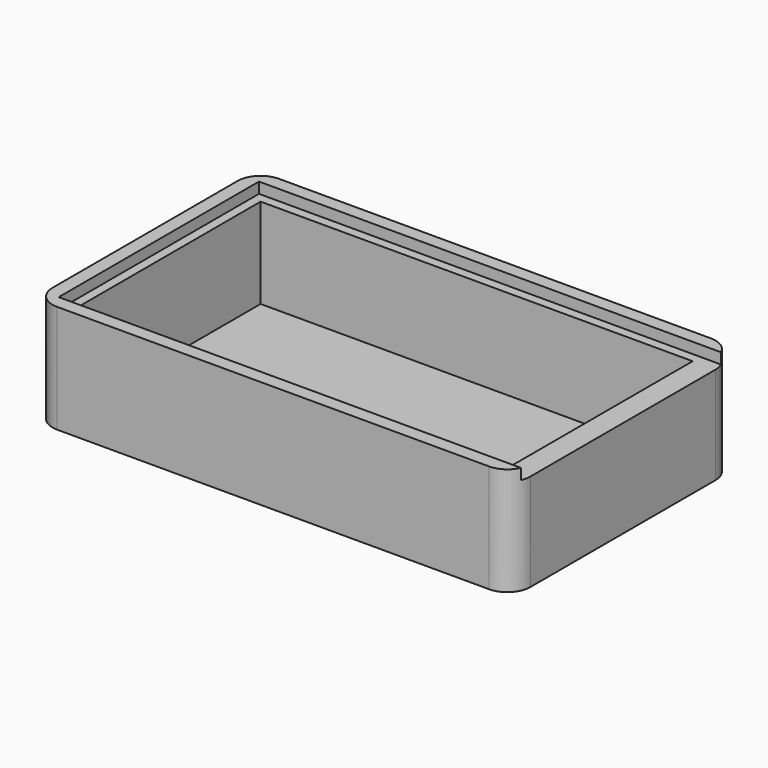
from build123d import *

# Parameters (mm, degrees)
F1_DEPTH = 30
F2_W     = 119.865141
F2_H     = 64.247175
F3_DEPTH = 28
F4_W     = 136.580032
F4_H     = 69.443569
F5_DEPTH = 3


with BuildPart() as f1:
    # F0 (on Top) → F1 (new body)
    with BuildSketch(Plane.XY):
        with BuildLine():
            ThreePointArc((0, -6.35), (-1.859872, -1.859872), (-6.35, 0))
            Line((-6.35, 0), (-126.215141, 0))
            ThreePointArc((-126.215141, 0), (-130.705269, -1.859872), (-132.565141, -6.35))
            Line((-132.565141, -6.35), (-132.565141, -70.597175))
            ThreePointArc((-132.565141, -70.597175), (-130.705269, -75.087303), (-126.215141, -76.947175))
            Line((-126.215141, -76.947175), (-6.35, -76.947175))
            ThreePointArc((-6.35, -76.947175), (-1.859872, -75.087303), (0, -70.597175))
            Line((0, -70.597175), (0, -6.35))
        make_face()
    extrude(amount=F1_DEPTH)

    # F2 (on face) → F3 (cut)
    with BuildSketch(Plane.XY.offset(30)):
        with Locations((-66.28257, -38.473587)):
            Rectangle(F2_W, F2_H)
    extrude(amount=-F3_DEPTH, mode=Mode.SUBTRACT)

    # F4 (on face) → F5 (cut)
    with BuildSketch(Plane.XY.offset(30)):
        with Locations((-60.4819, -38.440659)):
            Rectangle(F4_W, F4_H)
    extrude(amount=-F5_DEPTH, mode=Mode.SUBTRACT)


solid = f1.part
